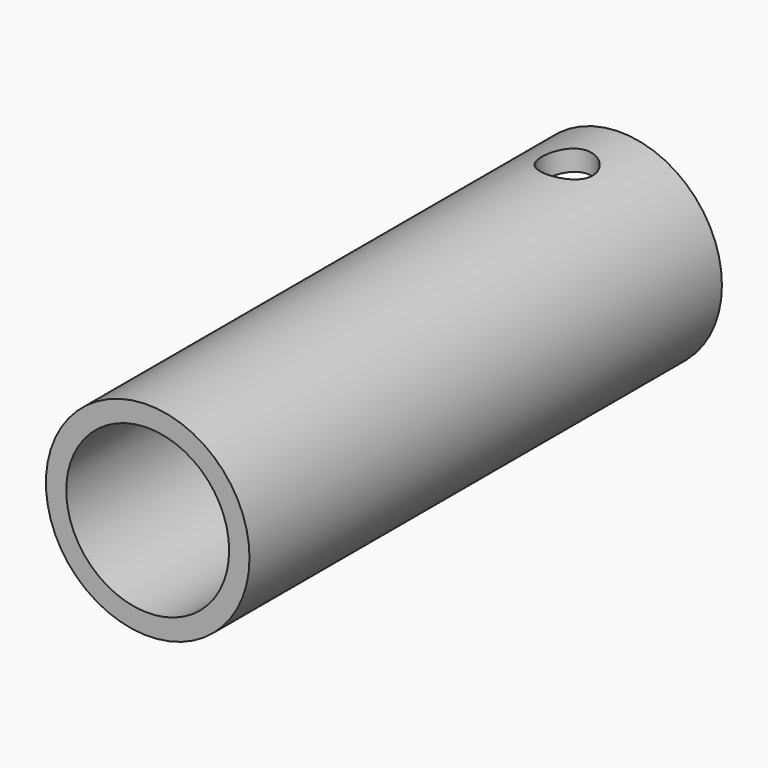
from build123d import *

# Parameters (mm, degrees)
F0_R          = 10
F1_DEPTH      = 58
F2_R          = 8
F3_DEPTH      = 60
F4_R          = 2.5
F5_DEPTH      = 25
F5_DEPTH_BACK = 25


with BuildPart() as f1:
    # F0 (on Front) → F1 (new body)
    with BuildSketch(Plane.XZ):
        Circle(F0_R)
    extrude(amount=F1_DEPTH)

    # F2 (on face) → F3 (cut)
    with BuildSketch(Plane.XZ.offset(58)):
        Circle(F2_R)
    extrude(amount=-F3_DEPTH, mode=Mode.SUBTRACT)

    # F4 (on Top) → F5 (cut, two sides)
    with BuildSketch(Plane.XY) as f5_sk:
        with Locations((0, -6.5)):
            Circle(F4_R)
    extrude(amount=-F5_DEPTH, mode=Mode.SUBTRACT)
    extrude(f5_sk.sketch, amount=F5_DEPTH_BACK, mode=Mode.SUBTRACT)


solid = f1.part
